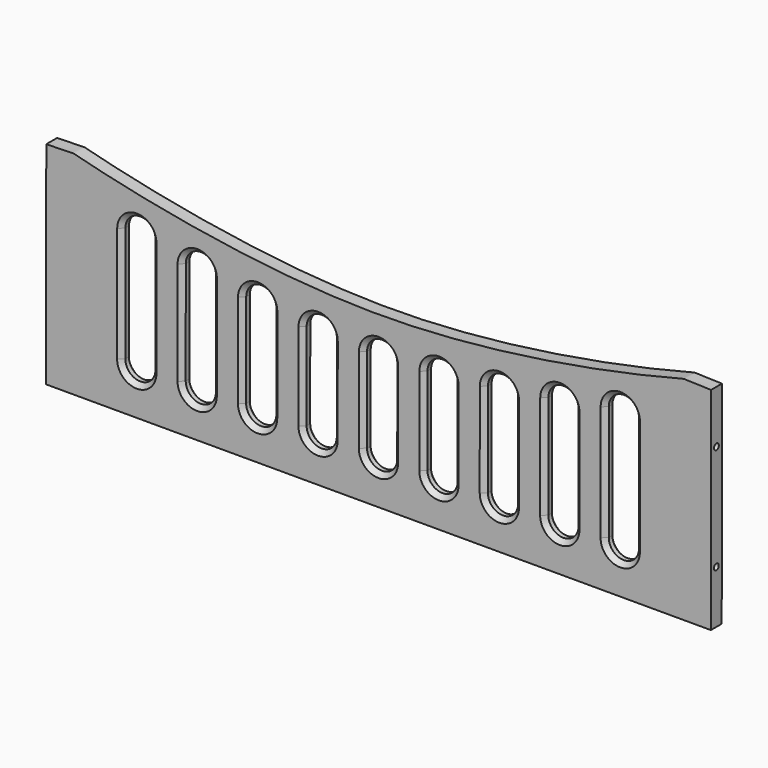
from build123d import *

# Parameters (mm, degrees)
F1_DEPTH = 9
F2_SIZE  = 3
F4_D     = 4
F4_DEPTH = 15
F4_TIP   = 1.2017212381
F6_D     = 4
F6_DEPTH = 15
F6_TIP   = 1.2017212381


with BuildPart() as f1:
    # F0 (on Front) → F1 (new body)
    with BuildSketch(Plane.XZ):
        with BuildLine():
            Line((-220.0626368999, -69.9549353437), (219.9373538806, -70.0450085997))
            Line((219.9373538806, -70.0450085997), (220.0626368999, 69.9549353437))
            add(Edge.make_bspline(
                [(-219.9373538806, 70.0450085997), (-199.9373538806, 70.0450085997), (-216.6704655541, 74.4055250187), (-0.0007798551, 17.9431203918), (216.8058766507, 74.4053980204), (200.0626368999, 70.0450085992), (220.0626368999, 69.9549353437)],
                knots=[0, 0, 0, 0, 0.1196931891, 0.4999412608, 0.880306204, 1, 1, 1, 1], degree=3))
            Line((-219.9373538806, 70.0450085997), (-220.0626368999, -69.9549353437))
        make_face()
        with BuildLine():
            Line((-170.0393250498, -39.9620589055), (-169.9999986665, 36.1896787821))
            ThreePointArc((-169.9999986665, 36.1896787821), (-159.9944506903, 46.1845130295), (-150.0000017609, 36.1785801628))
            Line((-150.0000017609, 36.1785801628), (-150.0451933034, -39.9731542701))
            ThreePointArc((-150.0451933034, -39.9731542701), (-160.0478066453, -49.9642874845), (-170.0393250498, -39.9620589055))
        make_face(mode=Mode.SUBTRACT)
        with BuildLine():
            Line((-130.0422587333, -39.9692360273), (-129.9999980941, 28.4795169333))
            ThreePointArc((-129.9999980941, 28.4795169333), (-119.9938259458, 38.4733409731), (-110.0000019059, 28.4671688248))
            Line((-110.0000019059, 28.4671688248), (-110.0422625452, -39.9815841357))
            ThreePointArc((-110.0422625452, -39.9815841357), (-120.0484346935, -49.9754081755), (-130.0422587333, -39.9692360273))
        make_face(mode=Mode.SUBTRACT)
        with BuildLine():
            Line((-90.042260003, -39.9767977945), (-89.9999976875, 22.1666648469))
            ThreePointArc((-89.9999976875, 22.1666648469), (-79.9931992354, 32.1598617699), (-70.0000023125, 22.1530633178))
            Line((-70.0000023125, 22.1530633178), (-70.0422646281, -39.9903993236))
            ThreePointArc((-70.0422646281, -39.9903993236), (-80.0490630801, -49.9835962466), (-90.042260003, -39.9767977945))
        make_face(mode=Mode.SUBTRACT)
        with BuildLine():
            Line((-50.0422613274, -39.9844871548), (-49.9999973356, 17.9123129962))
            ThreePointArc((-49.9999973356, 17.9123129962), (-39.9927001181, 27.9050104499), (-30.0000026644, 17.8977132324))
            Line((-30.0000026644, 17.8977132324), (-30.0422666562, -39.9990869186))
            ThreePointArc((-30.0422666562, -39.9990869186), (-40.0495638737, -49.9917843723), (-50.0422613274, -39.9844871548))
        make_face(mode=Mode.SUBTRACT)
        with BuildLine():
            Line((-10.0422628538, -39.9924730545), (-9.9999971857, 16.3432583937))
            ThreePointArc((-9.9999971857, 16.3432583937), (0.0075024598, 26.3357531195), (9.9999971857, 16.328253474))
            Line((9.9999971857, 16.328253474), (9.9577315176, -40.0074779741))
            ThreePointArc((9.9577315176, -40.0074779741), (-0.0497681279, -49.9999726999), (-10.0422628538, -39.9924730545))
        make_face(mode=Mode.SUBTRACT)
        with BuildLine():
            Line((29.9577353163, -40.0008692622), (30.0000026607, 17.9414189994))
            ThreePointArc((30.0000026607, 17.9414189994), (40.0072947297, 27.934121609), (49.9999973393, 17.92682954))
            Line((49.9999973393, 17.92682954), (49.957729995, -40.0154587216))
            ThreePointArc((49.957729995, -40.0154587216), (39.9504379259, -50.0081613312), (29.9577353163, -40.0008692622))
        make_face(mode=Mode.SUBTRACT)
        with BuildLine():
            Line((69.9577332858, -40.0095606011), (70.0000023065, 22.2251711426))
            ThreePointArc((70.0000023065, 22.2251711426), (80.0067918684, 32.2183769677), (89.9999976935, 22.2115874058))
            Line((89.9999976935, 22.2115874058), (89.9577286729, -40.0231443379))
            ThreePointArc((89.9577286729, -40.0231443379), (79.9509391109, -50.016350163), (69.9577332858, -40.0095606011))
        make_face(mode=Mode.SUBTRACT)
        with BuildLine():
            Line((109.9577312027, -40.0183771938), (110.0000018996, 28.5610859215))
            ThreePointArc((110.0000018996, 28.5610859215), (120.0061637533, 38.5549202687), (129.9999981004, 28.548758415))
            Line((129.9999981004, 28.548758415), (129.9577274035, -40.0307047003))
            ThreePointArc((129.9577274035, -40.0307047003), (119.9515655498, -50.0245390475), (109.9577312027, -40.0183771938))
        make_face(mode=Mode.SUBTRACT)
        with BuildLine():
            Line((149.9577291616, -40.0271889989), (150.0000015348, 36.2708587226))
            ThreePointArc((150.0000015348, 36.2708587226), (160.0055404257, 46.2653167621), (169.9999984652, 36.2597778711))
            Line((169.9999984652, 36.2597778711), (169.957726092, -40.0382698504))
            ThreePointArc((169.957726092, -40.0382698504), (159.952187201, -50.0327278899), (149.9577291616, -40.0271889989))
        make_face(mode=Mode.SUBTRACT)
    extrude(amount=F1_DEPTH)

    # F2
    f2_edges = [f1.edges().sort_by_distance(p)[0] for p in [
        (-159.994451, -9, 46.184513),
        (-110.021132, -9, -5.757208),
        (-70.021133, -9, -8.918668),
        (-30.021135, -9, -11.050687),
        (9.978864, -9, -11.839612),
        (49.978864, 0, -11.044315),
        (49.978864, -9, -11.044315),
        (89.978863, 0, -8.905778),
        (89.978863, -9, -8.905778),
        (129.978863, -9, -5.740973),
        (129.978863, 0, -5.740973),
        (149.978865, -9, -1.878165),
        (169.978862, 0, -1.889246),
        (-170.019662, 0, -1.88619),
        (-130.021128, 0, -5.74486),
        (-90.021129, 0, -8.905066),
        (-50.021129, 0, -11.036087),
        (-10.02113, 0, -11.824607),
    ]]
    chamfer(f2_edges, length=F2_SIZE)

    # F4
    with Locations(Plane(origin=(-219.9998595148, 0, 0.1968732692), x_dir=(0, -1, 0), z_dir=(-0.9999995996, 0, 0.0008948787))):
        with Locations((4.5, 34.8481632979), (4.5, -35.1518367021)):
            Hole(F4_D / 2, depth=F4_DEPTH)
            with Locations((0, 0, -(F4_DEPTH + F4_TIP / 2))):  # 118° drill point
                Cone(0, F4_D / 2, F4_TIP, mode=Mode.SUBTRACT)

    # F6
    with Locations(Plane(origin=(219.9998595148, 0, -0.1968732692), x_dir=(0, 1, 0), z_dir=(0.9999995996, 0, -0.0008948787))):
        with Locations((-4.5, 35.1518367021), (-4.5, -34.8481632979)):
            Hole(F6_D / 2, depth=F6_DEPTH)
            with Locations((0, 0, -(F6_DEPTH + F6_TIP / 2))):  # 118° drill point
                Cone(0, F6_D / 2, F6_TIP, mode=Mode.SUBTRACT)


solid = f1.part
